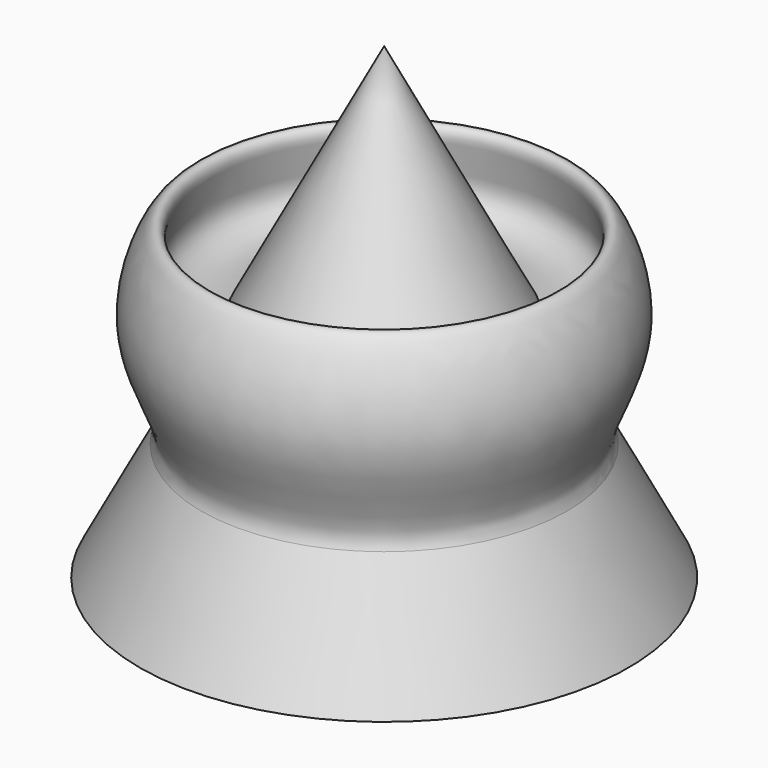
from build123d import *


with BuildPart() as f1:
    # F0 (on Front) → F1 (revolve)
    with BuildSketch(Plane.XZ):
        with BuildLine():
            Line((-7.5, 0), (0, 0))
            Line((0, 0), (0, 14.3532895433))
            Line((0, 14.3532895433), (-3.75, 7.1766447717))
            add(Edge.make_bspline(
                [(-3.75, 7.1766447717), (-4.0798371787, 7.1343801925), (-4.6925340901, 7.055178913), (-5.8039178818, 7.7219258149), (-5.0729319415, 9.2547449266), (-5.5728775931, 9.7032442438), (-6.2479395448, 8.534301124), (-6.5759289269, 6.7253273111), (-5.8591081852, 5.0448012161), (-5.4101929992, 3.9994139962), (-5.6116636872, 3.6138450471)],
                knots=[0, 0, 0, 0, 0.1121421656, 0.2266053652, 0.3654264731, 0.4314538849, 0.5505920411, 0.708508552, 0.8652538076, 1, 1, 1, 1], degree=3))
            Line((-5.6116636872, 3.6138450471), (-7.5, 0))
        make_face()
    revolve(axis=Axis((0, 0, 7.1766447717), (0, 0, 1)))


solid = f1.part
